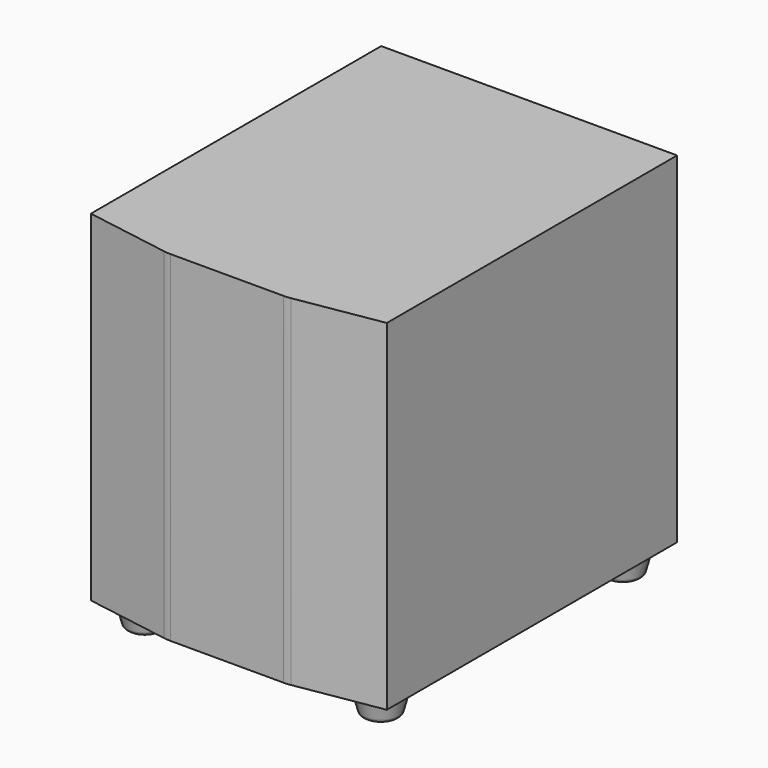
from build123d import *

# Parameters (mm, degrees)
F3_DEPTH  = 397
F4_R      = 50
F11_W     = 181
F11_H     = 130
F12_DEPTH = 18


with BuildPart() as f3:
    # F2 (on offset) → F3 (new body, through all)
    with BuildSketch(Plane.XY.offset(426)):
        Polygon((172.5, 211.5), (-172.5, 211.5), (-172.5, -211.5), (-70, -228.5), (70, -228.5), (172.5, -211.5), align=None)
    extrude(amount=-F3_DEPTH)

    # F4
    f4_edges = [f3.edges().sort_by_distance(p)[0] for p in [
        (-70, -228.5, 227.5),
        (70, -228.5, 227.5),
    ]]
    fillet(f4_edges, radius=F4_R)

    # F11 (on face) → F12 (join)
    with BuildSketch(Plane(origin=(0, 211.5, 0), x_dir=(-1, 0, 0), z_dir=(0, 1, 0))):
        with Locations((38, 329)):
            Rectangle(F11_W, F11_H)
    extrude(amount=F12_DEPTH)


with BuildPart() as f8:
    # F7 (on plane+point) → F8 (revolve)
    with BuildSketch(Plane.XZ.offset(-176.5)):
        with BuildLine():
            Line((-116.5070058084, 3.7059047745), (-109.7294734195, 29))
            Line((-109.7294734195, 29), (-137.5, 29))
            Line((-137.5, 29), (-137.5, 0))
            Line((-137.5, 0), (-121.3366349399, 0))
            ThreePointArc((-121.3366349399, 0), (-118.2928277949, 1.0332332985), (-116.5070058084, 3.7059047745))
        make_face()
    revolve(axis=Axis((-137.5, 176.5, 14.5), (0, 0, 1)))


with BuildPart() as f9_1:
    # F9: instance of F8
    add(f8.part.mirror(Plane.YZ))


with BuildPart() as f10_1:
    # F10: instance of F8
    add(f8.part.mirror(Plane.XZ))


with BuildPart() as f10_2:
    # F10: instance of F9_1
    add(f9_1.part.mirror(Plane.XZ))


solid = Compound([f3.part, f8.part, f9_1.part, f10_1.part, f10_2.part])
